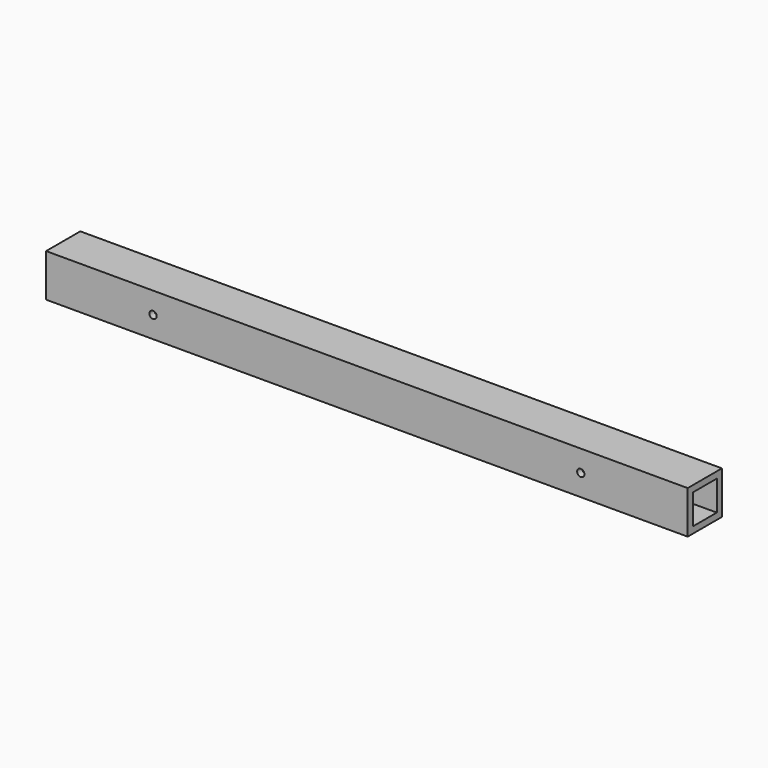
from build123d import *

# Parameters (mm, degrees)
F0_W     = 100
F0_H     = 100
F1_DEPTH = 1500
F2_W     = 70
F2_H     = 70
F3_DEPTH = 2001
F5_D     = 17


with BuildPart() as f1:
    # F0 (on Right) → F1 (new body)
    with BuildSketch(Plane.YZ):
        Rectangle(F0_W, F0_H)
    extrude(amount=F1_DEPTH)

    # F2 (on face) → F3 (cut)
    with BuildSketch(Plane.YZ.offset(1500)):
        Rectangle(F2_W, F2_H)
    extrude(amount=-F3_DEPTH, mode=Mode.SUBTRACT)

    # F5 (through all)
    with Locations(Plane.XZ.offset(50)):
        with Locations((250, 0), (1250, 0)):
            Hole(F5_D / 2)


solid = f1.part
